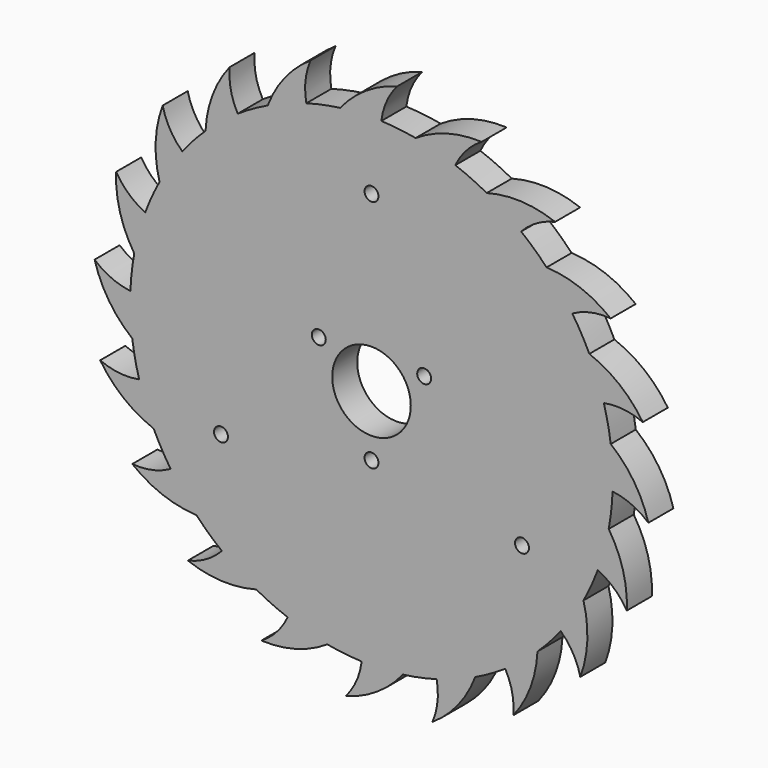
from build123d import *

# Parameters (mm, degrees)
F0_R     = 4
F0_R_2   = 22.606
F1_DEPTH = 18


with BuildPart() as f1:
    # F0 (on Front) → F1 (new body)
    with BuildSketch(Plane.XZ):
        with BuildLine():
            ThreePointArc((138.72574, -5.657885), (138.812234, -2.82953), (138.841069, 0))
            ThreePointArc((138.841069, 0), (138.546757, 9.035416), (137.665067, 18.032525))
            ThreePointArc((137.665067, 18.032525), (136.023008, 27.831344), (133.684401, 37.487643))
            ThreePointArc((133.684401, 37.487643), (129.994558, 48.76738), (125.354902, 59.690796))
            ThreePointArc((125.354902, 59.690796), (120.76521, 68.502602), (115.557102, 76.963619))
            ThreePointArc((115.557102, 76.963619), (108.562222, 86.551062), (100.774126, 95.506115))
            ThreePointArc((100.774126, 95.506115), (93.686072, 102.468348), (86.118269, 108.90586))
            ThreePointArc((86.118269, 108.90586), (76.50306, 115.862524), (66.328876, 121.972631))
            ThreePointArc((66.328876, 121.972631), (57.436288, 126.403779), (48.249579, 130.187636))
            ThreePointArc((48.249579, 130.187636), (36.955245, 133.832554), (25.390894, 136.499615))
            ThreePointArc((25.390894, 136.499615), (15.56424, 137.965927), (5.657885, 138.72574))
            ThreePointArc((5.657885, 138.72574), (-6.210007, 138.702121), (-18.032525, 137.665067))
            ThreePointArc((-18.032525, 137.665067), (-27.831344, 136.023008), (-37.487643, 133.684401))
            ThreePointArc((-37.487643, 133.684401), (-48.76738, 129.994558), (-59.690796, 125.354902))
            ThreePointArc((-59.690796, 125.354902), (-68.502602, 120.76521), (-76.963619, 115.557102))
            ThreePointArc((-76.963619, 115.557102), (-86.551062, 108.562222), (-95.506115, 100.774126))
            ThreePointArc((-95.506115, 100.774126), (-102.468348, 93.686072), (-108.90586, 86.118269))
            ThreePointArc((-108.90586, 86.118269), (-115.862524, 76.50306), (-121.972631, 66.328876))
            ThreePointArc((-121.972631, 66.328876), (-126.403779, 57.436288), (-130.187636, 48.249579))
            ThreePointArc((-130.187636, 48.249579), (-133.832554, 36.955245), (-136.499615, 25.390894))
            ThreePointArc((-136.499615, 25.390894), (-137.965927, 15.56424), (-138.72574, 5.657885))
            ThreePointArc((-138.72574, 5.657885), (-138.702121, -6.210007), (-137.665067, -18.032525))
            ThreePointArc((-137.665067, -18.032525), (-136.023008, -27.831344), (-133.684401, -37.487643))
            ThreePointArc((-133.684401, -37.487643), (-129.994558, -48.76738), (-125.354902, -59.690796))
            ThreePointArc((-125.354902, -59.690796), (-120.76521, -68.502602), (-115.557102, -76.963619))
            ThreePointArc((-115.557102, -76.963619), (-108.562222, -86.551062), (-100.774126, -95.506115))
            ThreePointArc((-100.774126, -95.506115), (-93.686072, -102.468348), (-86.118269, -108.90586))
            ThreePointArc((-86.118269, -108.90586), (-76.50306, -115.862524), (-66.328876, -121.972631))
            ThreePointArc((-66.328876, -121.972631), (-57.436288, -126.403779), (-48.249579, -130.187636))
            ThreePointArc((-48.249579, -130.187636), (-36.955245, -133.832554), (-25.390894, -136.499615))
            ThreePointArc((-25.390894, -136.499615), (-15.56424, -137.965927), (-5.657885, -138.72574))
            ThreePointArc((-5.657885, -138.72574), (6.210007, -138.702121), (18.032525, -137.665067))
            ThreePointArc((18.032525, -137.665067), (27.831344, -136.023008), (37.487643, -133.684401))
            ThreePointArc((37.487643, -133.684401), (48.76738, -129.994558), (59.690796, -125.354902))
            ThreePointArc((59.690796, -125.354902), (68.502602, -120.76521), (76.963619, -115.557102))
            ThreePointArc((76.963619, -115.557102), (86.551062, -108.562222), (95.506115, -100.774126))
            ThreePointArc((95.506115, -100.774126), (102.468348, -93.686072), (108.90586, -86.118269))
            ThreePointArc((108.90586, -86.118269), (115.862524, -76.50306), (121.972631, -66.328876))
            ThreePointArc((121.972631, -66.328876), (126.403779, -57.436288), (130.187636, -48.249579))
            ThreePointArc((130.187636, -48.249579), (133.832554, -36.955245), (136.499615, -25.390894))
            ThreePointArc((136.499615, -25.390894), (137.965927, -15.56424), (138.72574, -5.657885))
        make_face()
        with Locations((-86.60254, -50)):
            Circle(F0_R, mode=Mode.SUBTRACT)
        with Locations((0, -35)):
            Circle(F0_R, mode=Mode.SUBTRACT)
        with Locations((86.60254, -50)):
            Circle(F0_R, mode=Mode.SUBTRACT)
        with Locations((-30.310889, 17.5)):
            Circle(F0_R, mode=Mode.SUBTRACT)
        Circle(F0_R_2, mode=Mode.SUBTRACT)
        with Locations((30.310889, 17.5)):
            Circle(F0_R, mode=Mode.SUBTRACT)
        with Locations((0, 100)):
            Circle(F0_R, mode=Mode.SUBTRACT)
        with BuildLine():
            ThreePointArc((-137.665067, -18.032525), (-138.702121, -6.210007), (-138.72574, 5.657885))
            ThreePointArc((-138.72574, 5.657885), (-149.711791, 8.709228), (-159.307768, 14.867253))
            ThreePointArc((-159.307768, 14.867253), (-151.088132, -3.294142), (-137.665067, -18.032525))
        make_face()
        with BuildLine():
            ThreePointArc((-136.499615, 25.390894), (-133.832554, 36.955245), (-130.187636, 48.249579))
            ThreePointArc((-130.187636, 48.249579), (-139.693075, 54.546456), (-146.916457, 63.368405))
            ThreePointArc((-146.916457, 63.368405), (-144.711299, 43.555885), (-136.499615, 25.390894))
        make_face()
        with BuildLine():
            ThreePointArc((-121.972631, 66.328876), (-115.862524, 76.50306), (-108.90586, 86.118269))
            ThreePointArc((-108.90586, 86.118269), (-116.000227, 95.044297), (-120.14394, 105.666616))
            ThreePointArc((-120.14394, 105.666616), (-124.169115, 86.142359), (-121.972631, 66.328876))
        make_face()
        with BuildLine():
            ThreePointArc((-95.506115, 100.774126), (-86.551062, 108.562222), (-76.963619, 115.557102))
            ThreePointArc((-76.963619, 115.557102), (-80.952469, 126.238539), (-81.610896, 137.621443))
            ThreePointArc((-81.610896, 137.621443), (-91.472393, 120.296619), (-95.506115, 100.774126))
        make_face()
        with BuildLine():
            ThreePointArc((-59.690796, 125.354902), (-48.76738, 129.994558), (-37.487643, 133.684401))
            ThreePointArc((-37.487643, 133.684401), (-37.980519, 145.075674), (-35.08921, 156.104924))
            ThreePointArc((-35.08921, 156.104924), (-49.821716, 142.675407), (-59.690796, 125.354902))
        make_face()
        with BuildLine():
            ThreePointArc((-18.032525, 137.665067), (-6.210007, 138.702121), (5.657885, 138.72574))
            ThreePointArc((5.657885, 138.72574), (8.709228, 149.711791), (14.867253, 159.307768))
            ThreePointArc((14.867253, 159.307768), (-3.294142, 151.088132), (-18.032525, 137.665067))
        make_face()
        with BuildLine():
            ThreePointArc((25.390894, 136.499615), (36.955245, 133.832554), (48.249579, 130.187636))
            ThreePointArc((48.249579, 130.187636), (54.546456, 139.693075), (63.368405, 146.916457))
            ThreePointArc((63.368405, 146.916457), (43.555885, 144.711299), (25.390894, 136.499615))
        make_face()
        with BuildLine():
            ThreePointArc((66.328876, 121.972631), (76.50306, 115.862524), (86.118269, 108.90586))
            ThreePointArc((86.118269, 108.90586), (95.044297, 116.000227), (105.666616, 120.14394))
            ThreePointArc((105.666616, 120.14394), (86.142359, 124.169115), (66.328876, 121.972631))
        make_face()
        with BuildLine():
            ThreePointArc((100.774126, 95.506115), (108.562222, 86.551062), (115.557102, 76.963619))
            ThreePointArc((115.557102, 76.963619), (126.238539, 80.952469), (137.621443, 81.610896))
            ThreePointArc((137.621443, 81.610896), (120.296619, 91.472393), (100.774126, 95.506115))
        make_face()
        with BuildLine():
            ThreePointArc((125.354902, 59.690796), (129.994558, 48.76738), (133.684401, 37.487643))
            ThreePointArc((133.684401, 37.487643), (145.075674, 37.980519), (156.104924, 35.08921))
            ThreePointArc((156.104924, 35.08921), (142.675407, 49.821716), (125.354902, 59.690796))
        make_face()
        with BuildLine():
            ThreePointArc((137.665067, 18.032525), (138.546757, 9.035416), (138.841069, 0))
            ThreePointArc((138.841069, 0), (138.812234, -2.82953), (138.72574, -5.657885))
            ThreePointArc((138.72574, -5.657885), (149.711791, -8.709228), (159.307768, -14.867253))
            ThreePointArc((159.307768, -14.867253), (151.088132, 3.294142), (137.665067, 18.032525))
        make_face()
        with BuildLine():
            ThreePointArc((146.916457, -63.368405), (144.711299, -43.555885), (136.499615, -25.390894))
            ThreePointArc((136.499615, -25.390894), (133.832554, -36.955245), (130.187636, -48.249579))
            ThreePointArc((130.187636, -48.249579), (139.693075, -54.546456), (146.916457, -63.368405))
        make_face()
        with BuildLine():
            ThreePointArc((120.14394, -105.666616), (124.169115, -86.142359), (121.972631, -66.328876))
            ThreePointArc((121.972631, -66.328876), (115.862524, -76.50306), (108.90586, -86.118269))
            ThreePointArc((108.90586, -86.118269), (116.000227, -95.044297), (120.14394, -105.666616))
        make_face()
        with BuildLine():
            ThreePointArc((81.610896, -137.621443), (91.472393, -120.296619), (95.506115, -100.774126))
            ThreePointArc((95.506115, -100.774126), (86.551062, -108.562222), (76.963619, -115.557102))
            ThreePointArc((76.963619, -115.557102), (80.952469, -126.238539), (81.610896, -137.621443))
        make_face()
        with BuildLine():
            ThreePointArc((35.08921, -156.104924), (49.821716, -142.675407), (59.690796, -125.354902))
            ThreePointArc((59.690796, -125.354902), (48.76738, -129.994558), (37.487643, -133.684401))
            ThreePointArc((37.487643, -133.684401), (37.980519, -145.075674), (35.08921, -156.104924))
        make_face()
        with BuildLine():
            ThreePointArc((-14.867253, -159.307768), (3.294142, -151.088132), (18.032525, -137.665067))
            ThreePointArc((18.032525, -137.665067), (6.210007, -138.702121), (-5.657885, -138.72574))
            ThreePointArc((-5.657885, -138.72574), (-8.709228, -149.711791), (-14.867253, -159.307768))
        make_face()
        with BuildLine():
            ThreePointArc((-63.368405, -146.916457), (-43.555885, -144.711299), (-25.390894, -136.499615))
            ThreePointArc((-25.390894, -136.499615), (-36.955245, -133.832554), (-48.249579, -130.187636))
            ThreePointArc((-48.249579, -130.187636), (-54.546456, -139.693075), (-63.368405, -146.916457))
        make_face()
        with BuildLine():
            ThreePointArc((-105.666616, -120.14394), (-86.142359, -124.169115), (-66.328876, -121.972631))
            ThreePointArc((-66.328876, -121.972631), (-76.50306, -115.862524), (-86.118269, -108.90586))
            ThreePointArc((-86.118269, -108.90586), (-95.044297, -116.000227), (-105.666616, -120.14394))
        make_face()
        with BuildLine():
            ThreePointArc((-137.621443, -81.610896), (-120.296619, -91.472393), (-100.774126, -95.506115))
            ThreePointArc((-100.774126, -95.506115), (-108.562222, -86.551062), (-115.557102, -76.963619))
            ThreePointArc((-115.557102, -76.963619), (-126.238539, -80.952469), (-137.621443, -81.610896))
        make_face()
        with BuildLine():
            ThreePointArc((-156.104924, -35.08921), (-142.675407, -49.821716), (-125.354902, -59.690796))
            ThreePointArc((-125.354902, -59.690796), (-129.994558, -48.76738), (-133.684401, -37.487643))
            ThreePointArc((-133.684401, -37.487643), (-145.075674, -37.980519), (-156.104924, -35.08921))
        make_face()
    extrude(amount=F1_DEPTH)


solid = f1.part
